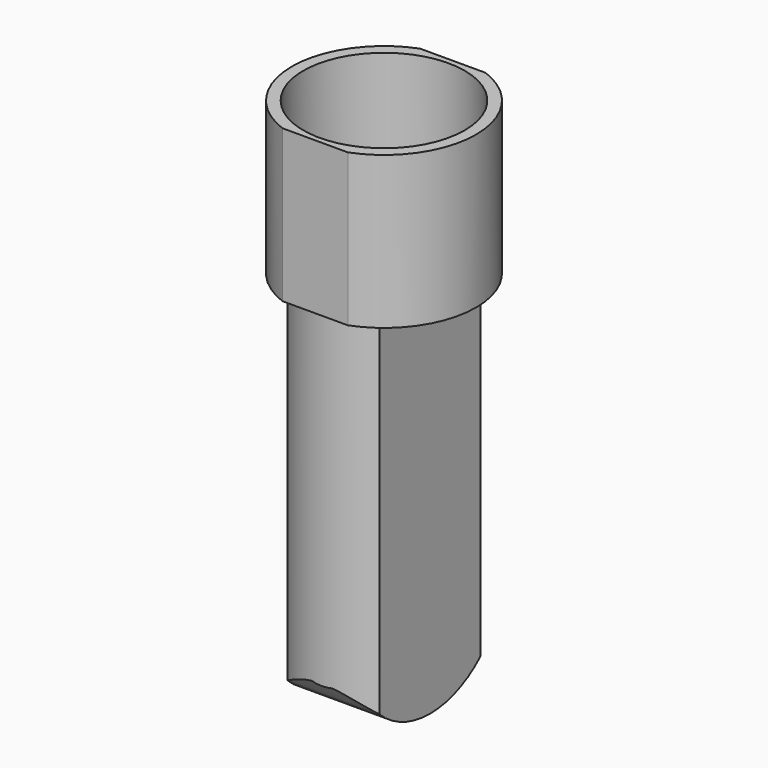
from build123d import *

# Parameters (mm, degrees)
F1_DEPTH = 38
F2_R     = 20.15
F3_DEPTH = 26
F5_DEPTH = 93
F7_DEPTH = 34.501


with BuildPart() as f1:
    # F0 (on Top) → F1 (new body)
    with BuildSketch(Plane.XY):
        with BuildLine():
            Line((8.17, 21.5), (-8.17, 21.5))
            ThreePointArc((-8.17, 21.5), (-23, 4.6e-05), (-8.170135, -21.5))
            Line((-8.170135, -21.5), (8.170135, -21.5))
            ThreePointArc((8.170135, -21.5), (23, 4.6e-05), (8.17, 21.5))
        make_face()
    extrude(amount=F1_DEPTH)

    # F2 (on face) → F3 (cut)
    with BuildSketch(Plane.XY.offset(38)):
        Circle(F2_R)
    extrude(amount=-F3_DEPTH, mode=Mode.SUBTRACT)

    # F4 (on face) → F5 (join)
    with BuildSketch(Plane(origin=(0, 0, 0), x_dir=(1, 0, 0), z_dir=(0, 0, -1))):
        with BuildLine():
            Line((-11.5, 15.748016), (-11.5, -15.748016))
            ThreePointArc((-11.5, -15.748016), (0, -19.5), (11.5, -15.748016))
            Line((11.5, -15.748016), (11.5, 15.748016))
            ThreePointArc((11.5, 15.748016), (0, 19.5), (-11.5, 15.748016))
        make_face()
        with BuildLine():
            Line((-11.5, 15.748016), (-11.5, -15.748016))
            ThreePointArc((-11.5, -15.748016), (0, -19.5), (11.5, -15.748016))
            Line((11.5, -15.748016), (11.5, 15.748016))
            ThreePointArc((11.5, 15.748016), (0, 19.5), (-11.5, 15.748016))
        make_face()
    extrude(amount=F5_DEPTH)

    # F6 (on face) → F7 (cut, through all)
    with BuildSketch(Plane(origin=(-11.5, 0, 0), x_dir=(0, -1, 0), z_dir=(-1, 0, 0))):
        with BuildLine():
            Line((37.692022, -105.290577), (19.317019, -82.484102))
            ThreePointArc((19.317019, -82.484102), (17.662574, -84.732056), (15.748016, -86.763055))
            Line((15.748016, -86.763055), (15.748016, -93))
            Line((15.748016, -93), (0, -93))
            Line((0, -93), (-15.748016, -93))
            Line((-15.748016, -93), (-15.748016, -86.763055))
            ThreePointArc((-15.748016, -86.763055), (-17.82786, -84.531601), (-19.594111, -82.044535))
            Line((-19.594111, -82.044535), (-36.662605, -104.731515))
            Line((-36.662605, -104.731515), (37.692022, -105.290577))
        make_face()
        with BuildLine():
            Line((15.748016, -93), (15.748016, -86.763055))
            ThreePointArc((15.748016, -86.763055), (8.469054, -91.383992), (0, -93))
            Line((0, -93), (15.748016, -93))
        make_face()
        with BuildLine():
            Line((-15.748016, -93), (0, -93))
            ThreePointArc((0, -93), (-8.469054, -91.383992), (-15.748016, -86.763055))
            Line((-15.748016, -86.763055), (-15.748016, -93))
        make_face()
    extrude(amount=-F7_DEPTH, mode=Mode.SUBTRACT)


solid = f1.part
